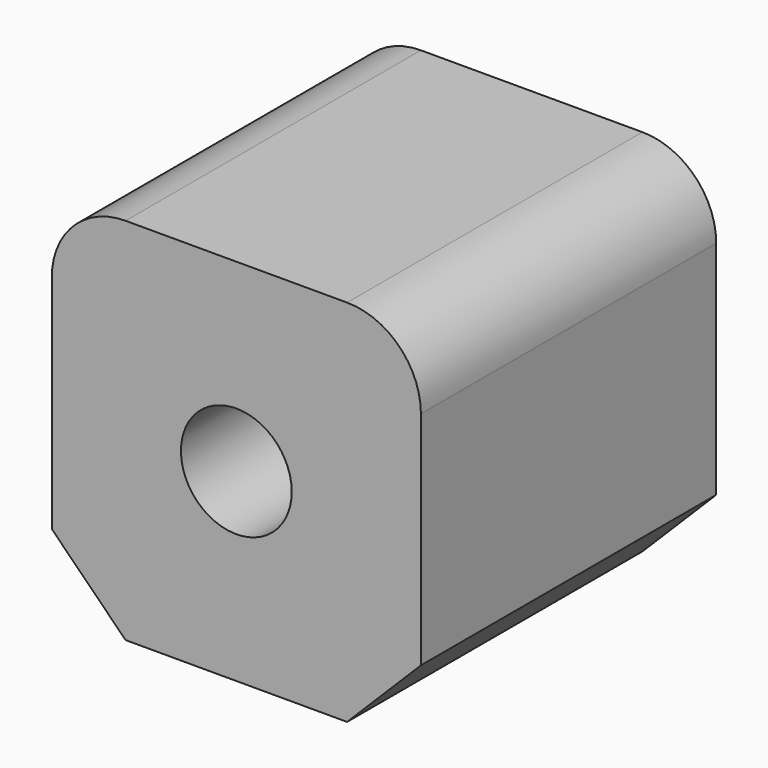
from build123d import *

# Parameters (mm, degrees)
F0_W     = 100
F0_H     = 100
F1_DEPTH = 100
F2_R     = 15
F3_DEPTH = 100.001
F4_R     = 20
F5_SIZE  = 20


with BuildPart() as f1:
    # F0 (on Front) → F1 (new body)
    with BuildSketch(Plane.XZ):
        Rectangle(F0_W, F0_H)
    extrude(amount=F1_DEPTH)

    # F2 (on face) → F3 (cut, through all)
    with BuildSketch(Plane.XZ.offset(100)):
        Circle(F2_R)
    extrude(amount=-F3_DEPTH, mode=Mode.SUBTRACT)

    # F4
    f4_edges = [f1.edges().sort_by_distance(p)[0] for p in [
        (-50, -50, 50),
        (50, -50, 50),
    ]]
    fillet(f4_edges, radius=F4_R)

    # F5
    f5_edges = [f1.edges().sort_by_distance(p)[0] for p in [
        (-50, -50, -50),
        (50, -50, -50),
    ]]
    chamfer(f5_edges, length=F5_SIZE)


solid = f1.part
